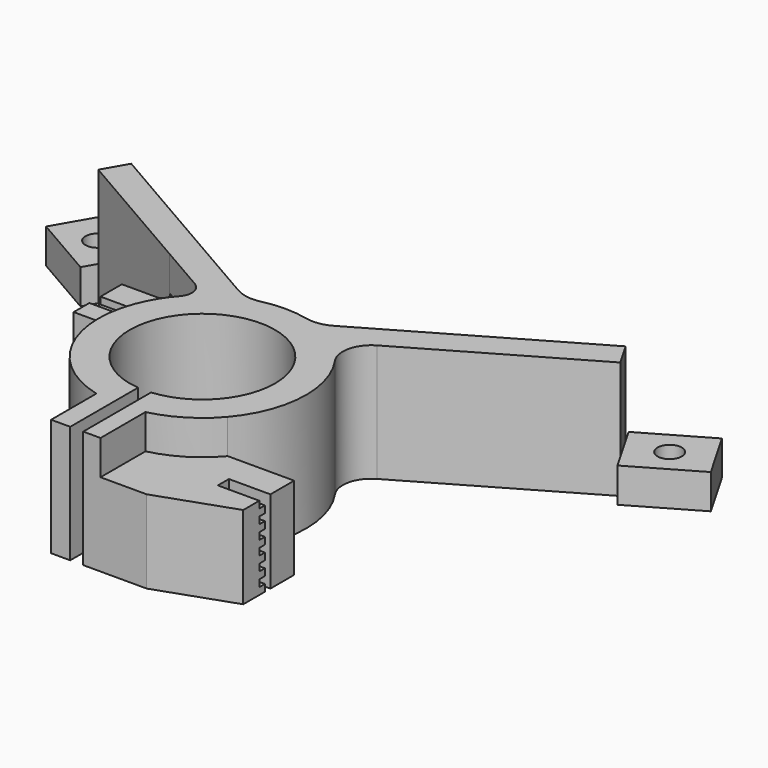
from build123d import *

# Parameters (mm, degrees)
F0_R     = 1.75
F1_DEPTH = 5
F3_DEPTH = 7
F5_DEPTH = 5
F6_W     = 1
F6_H     = 1
F7_DEPTH = 6
F8_W     = 1
F8_H     = 1
F9_DEPTH = 6


with BuildPart() as f1:
    # F0 (on Top) → F1 (new body)
    with BuildSketch(Plane.XY):
        with BuildLine():
            ThreePointArc((-0.9388981295, -10.4579381478), (0, 10.5), (0.9388981295, -10.4579381478))
            Line((0.9388981295, -10.4579381478), (0.9388981295, -14.9705868389))
            Line((0.9388981295, -14.9705868389), (0.9388981295, -22.7195436882))
            Line((0.9388981295, -22.7195436882), (4.4024475525, -22.7195436882))
            Line((4.4024475525, -22.7195436882), (10.116501772, -22.7195436882))
            Line((10.116501772, -22.7195436882), (21.0318053748, -18.9101754503))
            Line((21.0318053748, -18.9101754503), (21.0318053748, -15))
            Line((21.0318053748, -15), (15.0318053748, -15))
            Line((15.0318053748, -15), (15.0318053748, -14))
            Line((15.0318053748, -14), (21.0318053748, -14))
            Line((21.0318053748, -14), (21.0318053748, -9.7105238683))
            Line((21.0318053748, -9.7105238683), (11.4326605041, -9.7105238683))
            ThreePointArc((11.4326605041, -9.7105238683), (14.9816222336, -0.7422905424), (12.3365595381, 8.5328365016))
            ThreePointArc((12.3365595381, 8.5328365016), (11.704066925, 11.7858634787), (13.6674751693, 14.4555562485))
            Line((13.6674751693, 14.4555562485), (37.7463729757, 28.3575143788))
            Line((37.7463729757, 28.3575143788), (38.825355636, 26.4886615908))
            Line((38.825355636, 26.4886615908), (48.0623036168, 31.821615994))
            Line((48.0623036168, 31.821615994), (43.9043382963, 39.0234231853))
            Line((43.9043382963, 39.0234231853), (34.6673903154, 33.6904687821))
            Line((34.6673903154, 33.6904687821), (35.7463729757, 31.821615994))
            Line((35.7463729757, 31.821615994), (6.9158291977, 15.1762937829))
            ThreePointArc((6.9158291977, 15.1762937829), (5.1654246928, 14.5629294653), (3.3118718983, 14.6298156013))
            ThreePointArc((3.3118718983, 14.6298156013), (0, 15), (-3.3118718983, 14.6298156013))
            ThreePointArc((-3.3118718983, 14.6298156013), (-5.1654246928, 14.5629294653), (-6.9158291977, 15.1762937829))
            Line((-6.9158291977, 15.1762937829), (-35.7463729757, 31.821615994))
            Line((-35.7463729757, 31.821615994), (-34.6673903154, 33.6904687821))
            Line((-34.6673903154, 33.6904687821), (-43.9043382963, 39.0234231853))
            Line((-43.9043382963, 39.0234231853), (-48.0623036168, 31.821615994))
            Line((-48.0623036168, 31.821615994), (-38.825355636, 26.4886615908))
            Line((-38.825355636, 26.4886615908), (-37.7463729757, 28.3575143788))
            Line((-37.7463729757, 28.3575143788), (-18.5453659437, 17.2718078002))
            ThreePointArc((-18.5453659437, 17.2718078002), (-18.1373653852, 16.2868073185), (-18.9832044744, 15.6377721578))
            Line((-18.9832044744, 15.6377721578), (-24.1605976116, 15.6377721578))
            Line((-24.1605976116, 15.6377721578), (-24.1605976116, 10.7727729008))
            Line((-24.1605976116, 10.7727729008), (-18.1605976116, 10.7727729008))
            Line((-18.1605976116, 10.7727729008), (-18.1605976116, 9.7727729008))
            Line((-18.1605976116, 9.7727729008), (-24.1605976116, 9.7727729008))
            Line((-24.1605976116, 9.7727729008), (-24.1605976116, 6.9246333643))
            Line((-24.1605976116, 6.9246333643), (-13.3059931147, 6.9246333643))
            ThreePointArc((-13.3059931147, 6.9246333643), (-13.6917078006, -6.1267558709), (-3.7029089872, -14.5357650309))
            Line((-3.7029089872, -14.5357650309), (-3.7029089872, -22.7195436882))
            Line((-3.7029089872, -22.7195436882), (-0.9388981295, -22.7195436882))
            Line((-0.9388981295, -22.7195436882), (-0.9388981295, -14.9705868389))
            Line((-0.9388981295, -14.9705868389), (-0.9388981295, -10.4579381478))
        make_face()
        with Locations((-41.3648469661, 32.756042388)):
            Circle(F0_R, mode=Mode.SUBTRACT)
        with Locations((41.3648469661, 32.756042388)):
            Circle(F0_R, mode=Mode.SUBTRACT)
    extrude(amount=F1_DEPTH)

    # F2 (on face) → F3 (join)
    with BuildSketch(Plane.XY.offset(5)):
        with BuildLine():
            Line((37.7463729757, 28.3575143788), (35.7463729757, 31.821615994))
            Line((35.7463729757, 31.821615994), (6.9158291977, 15.1762937829))
            ThreePointArc((6.9158291977, 15.1762937829), (5.1654246928, 14.5629294653), (3.3118718983, 14.6298156013))
            ThreePointArc((3.3118718983, 14.6298156013), (0, 15), (-3.3118718983, 14.6298156013))
            ThreePointArc((-3.3118718983, 14.6298156013), (-5.1654246928, 14.5629294653), (-6.9158291977, 15.1762937829))
            Line((-6.9158291977, 15.1762937829), (-35.7463729757, 31.821615994))
            Line((-35.7463729757, 31.821615994), (-37.7463729757, 28.3575143788))
            Line((-37.7463729757, 28.3575143788), (-18.5453659437, 17.2718078002))
            ThreePointArc((-18.5453659437, 17.2718078002), (-18.1373653852, 16.2868073185), (-18.9832044744, 15.6377721578))
            Line((-18.9832044744, 15.6377721578), (-24.1605976116, 15.6377721578))
            Line((-24.1605976116, 15.6377721578), (-24.1605976116, 10.7727729008))
            Line((-24.1605976116, 10.7727729008), (-18.1605976116, 10.7727729008))
            Line((-18.1605976116, 10.7727729008), (-18.1605976116, 9.7727729008))
            Line((-18.1605976116, 9.7727729008), (-24.1605976116, 9.7727729008))
            Line((-24.1605976116, 9.7727729008), (-24.1605976116, 6.9246333643))
            Line((-24.1605976116, 6.9246333643), (-13.3059931147, 6.9246333643))
            ThreePointArc((-13.3059931147, 6.9246333643), (-13.6917078006, -6.1267558709), (-3.7029089872, -14.5357650309))
            Line((-3.7029089872, -14.5357650309), (-3.7029089872, -22.7195436882))
            Line((-3.7029089872, -22.7195436882), (-0.9388981295, -22.7195436882))
            Line((-0.9388981295, -22.7195436882), (-0.9388981295, -10.4579381478))
            ThreePointArc((-0.9388981295, -10.4579381478), (0, 10.5), (0.9388981295, -10.4579381478))
            Line((0.9388981295, -10.4579381478), (0.9388981295, -22.7195436882))
            Line((0.9388981295, -22.7195436882), (10.116501772, -22.7195436882))
            Line((10.116501772, -22.7195436882), (21.0318053748, -18.9101754503))
            Line((21.0318053748, -18.9101754503), (21.0318053748, -15))
            Line((21.0318053748, -15), (15.0318053748, -15))
            Line((15.0318053748, -15), (15.0318053748, -14))
            Line((15.0318053748, -14), (21.0318053748, -14))
            Line((21.0318053748, -14), (21.0318053748, -9.7105238683))
            Line((21.0318053748, -9.7105238683), (11.4326605041, -9.7105238683))
            ThreePointArc((11.4326605041, -9.7105238683), (14.9816222336, -0.7422905424), (12.3365595381, 8.5328365016))
            ThreePointArc((12.3365595381, 8.5328365016), (11.704066925, 11.7858634787), (13.6674751693, 14.4555562485))
            Line((13.6674751693, 14.4555562485), (37.7463729757, 28.3575143788))
        make_face()
    extrude(amount=F3_DEPTH)

    # F4 (on face) → F5 (join)
    with BuildSketch(Plane.XY.offset(12)):
        with BuildLine():
            Line((0.9388981295, -22.7195436882), (3.4428494982, -22.7195436882))
            Line((3.4428494982, -22.7195436882), (3.4428494982, -14.5995475044))
            ThreePointArc((3.4428494982, -14.5995475044), (7.8291658231, -12.7946927479), (11.4326605041, -9.7105238683))
            ThreePointArc((11.4326605041, -9.7105238683), (14.9816222336, -0.7422905424), (12.3365595381, 8.5328365016))
            ThreePointArc((12.3365595381, 8.5328365016), (11.704066925, 11.7858634787), (13.6674751693, 14.4555562485))
            Line((13.6674751693, 14.4555562485), (37.7463729757, 28.3575143788))
            Line((37.7463729757, 28.3575143788), (35.7463729757, 31.821615994))
            Line((35.7463729757, 31.821615994), (6.9158291977, 15.1762937829))
            ThreePointArc((6.9158291977, 15.1762937829), (5.1654246928, 14.5629294653), (3.3118718983, 14.6298156013))
            ThreePointArc((3.3118718983, 14.6298156013), (0, 15), (-3.3118718983, 14.6298156013))
            ThreePointArc((-3.3118718983, 14.6298156013), (-5.1654246928, 14.5629294653), (-6.9158291977, 15.1762937829))
            Line((-6.9158291977, 15.1762937829), (-35.7463729757, 31.821615994))
            Line((-35.7463729757, 31.821615994), (-37.7463729757, 28.3575143788))
            Line((-37.7463729757, 28.3575143788), (-18.5453659437, 17.2718078002))
            Line((-18.5453659437, 17.2718078002), (-11.7966768619, 13.3754503421))
            ThreePointArc((-11.7966768619, 13.3754503421), (-10.7011937418, 11.7891096419), (-11.2363395942, 9.9370353992))
            ThreePointArc((-11.2363395942, 9.9370353992), (-12.3632586806, 8.4941058856), (-13.3059931147, 6.9246333643))
            ThreePointArc((-13.3059931147, 6.9246333643), (-13.6917078006, -6.1267558709), (-3.7029089872, -14.5357650309))
            Line((-3.7029089872, -14.5357650309), (-3.7029089872, -22.7195436882))
            Line((-3.7029089872, -22.7195436882), (-0.9388981295, -22.7195436882))
            Line((-0.9388981295, -22.7195436882), (-0.9388981295, -10.4579381478))
            ThreePointArc((-0.9388981295, -10.4579381478), (0, 10.5), (0.9388981295, -10.4579381478))
            Line((0.9388981295, -10.4579381478), (0.9388981295, -22.7195436882))
        make_face()
    extrude(amount=F5_DEPTH)

    # F6 (on face) → F7 (cut)
    with BuildSketch(Plane.YZ.offset(21.0318053748)):
        with Locations((-15.5, 9.5)):
            Rectangle(F6_W, F6_H)
        with Locations((-15.5, 7.5)):
            Rectangle(F6_W, F6_H)
        with Locations((-15.5, 11.5)):
            Rectangle(F6_W, F6_H)
        with Locations((-15.5, 5.5)):
            Rectangle(F6_W, F6_H)
        with Locations((-15.5, 3.5)):
            Rectangle(F6_W, F6_H)
        with Locations((-15.5, 1.5)):
            Rectangle(F6_W, F6_H)
    extrude(amount=-F7_DEPTH, mode=Mode.SUBTRACT)

    # F8 (on face) → F9 (cut)
    with BuildSketch(Plane(origin=(-24.1605976116, 0, 0), x_dir=(0, -1, 0), z_dir=(-1, 0, 0))):
        with Locations((-11.2727729008, 11.5)):
            Rectangle(F8_W, F8_H)
        with Locations((-11.2727729008, 9.5)):
            Rectangle(F8_W, F8_H)
        with Locations((-11.2727729008, 7.5)):
            Rectangle(F8_W, F8_H)
        with Locations((-11.2727729008, 5.5)):
            Rectangle(F8_W, F8_H)
        with Locations((-11.2727729008, 3.5)):
            Rectangle(F8_W, F8_H)
        with Locations((-11.2727729008, 1.5)):
            Rectangle(F8_W, F8_H)
    extrude(amount=-F9_DEPTH, mode=Mode.SUBTRACT)


solid = f1.part
